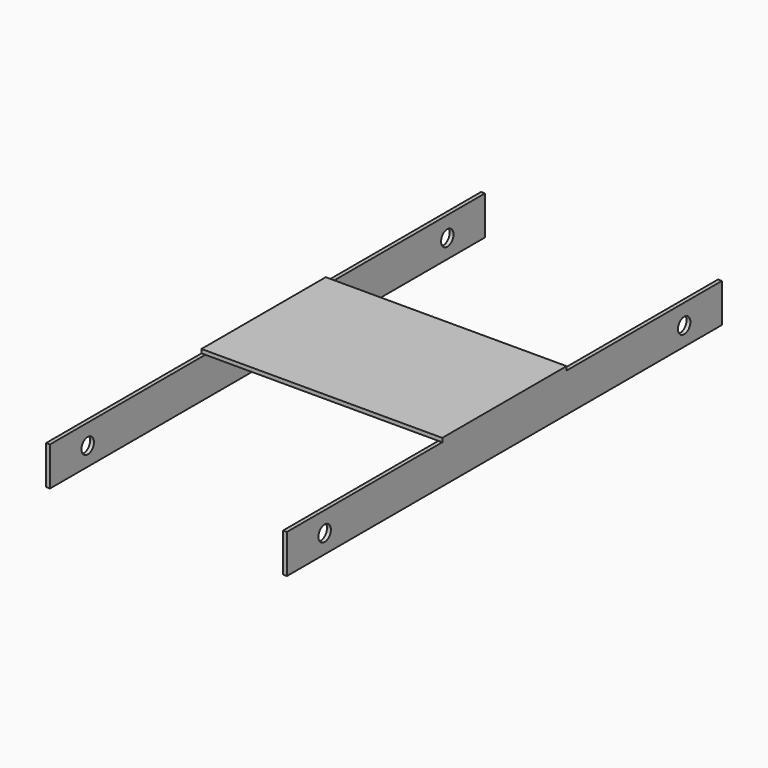
from build123d import *

# Parameters (mm, degrees)
F0_W     = 0.5
F0_H     = 5
F1_DEPTH = 70
F2_DEPTH = 25
F3_START = 45
F3_DEPTH = 25
F4_R     = 1
F5_DEPTH = 84.25
F6_R     = 1
F7_DEPTH = 160.25


with BuildPart() as f1:
    # F0 (on Front) → F1 (new body)
    with BuildSketch(Plane.XZ):
        with Locations((-61.1022742987, 43.2528425008)):
            Rectangle(F0_W, F0_H)
        Polygon((-61.3522742987, 45.7528425008), (-60.8522742987, 45.7528425008), (-30.8522742987, 45.7528425008), (-30.3522742987, 45.7528425008), (-30.3522742987, 46.2528425008), (-61.3522742987, 46.2528425008), align=None)
        with Locations((-30.6022742987, 43.2528425008)):
            Rectangle(F0_W, F0_H)
    extrude(amount=F1_DEPTH)

    # F0 (on Front) → F2 (cut)
    with BuildSketch(Plane.XZ):
        Polygon((-61.3522742987, 45.7528425008), (-60.8522742987, 45.7528425008), (-30.8522742987, 45.7528425008), (-30.3522742987, 45.7528425008), (-30.3522742987, 46.2528425008), (-61.3522742987, 46.2528425008), align=None)
    extrude(amount=F2_DEPTH, mode=Mode.SUBTRACT)

    # F0 (on Front) → F3 (cut)
    with BuildSketch(Plane.XZ.offset(F3_START)):
        Polygon((-61.3522742987, 45.7528425008), (-60.8522742987, 45.7528425008), (-30.8522742987, 45.7528425008), (-30.3522742987, 45.7528425008), (-30.3522742987, 46.2528425008), (-61.3522742987, 46.2528425008), align=None)
    extrude(amount=F3_DEPTH, mode=Mode.SUBTRACT)

    # F4 (on Right) → F5 (cut)
    with BuildSketch(Plane.YZ):
        with Locations((-63.924215734, 43.1419759989)):
            Circle(F4_R)
    extrude(amount=-F5_DEPTH, mode=Mode.SUBTRACT)

    # F6 (on Right) → F7 (cut)
    with BuildSketch(Plane.YZ):
        with Locations((-6.0686194338, 43.1675091386)):
            Circle(F6_R)
    extrude(amount=-F7_DEPTH, mode=Mode.SUBTRACT)


solid = f1.part
